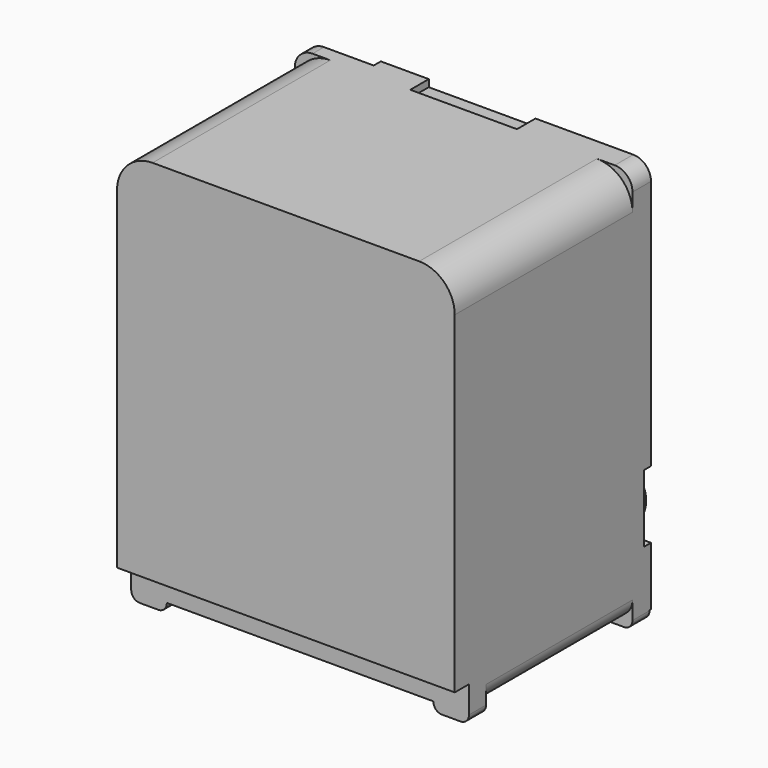
from build123d import *

# Parameters (mm, degrees)
SKETCH006_W     = 9.5
SKETCH006_H     = 11.1
PAD004_DEPTH    = 6.9
PAD005_DEPTH    = 0.15
POCKET002_DEPTH = 0.25
SKETCH009_R     = 0.8
PAD006_DEPTH    = 0.4
FILLET003_R     = 0.2
SKETCH010_W     = 1
SKETCH010_H     = 0.6
PAD007_DEPTH    = 0.25
FILLET004_R     = 0.24
SKETCH011_W     = 0.75
SKETCH011_H     = 0.5
POCKET003_DEPTH = 9.5
FILLET005_R     = 0.5
POCKET004_DEPTH = 6.25
FILLET006_R     = 0.5
SKETCH013_W     = 3
SKETCH013_H     = 0.65
POCKET005_DEPTH = 0.2


with BuildPart() as part:
    # Sketch006 → Pad004 (new body)
    with BuildSketch(Plane.XZ):
        with Locations((0, -0.7)):
            Rectangle(SKETCH006_W, SKETCH006_H)
    extrude(amount=-PAD004_DEPTH)

    # Sketch007 (on Face6 of Pad004) → Pad005 (join)
    with BuildSketch(Plane(origin=(0, 6.9, 0), x_dir=(1, 0, 0), z_dir=(0, 1, 0))):
        with BuildLine():
            Line((-4.05, 2), (-4.05, -2))
            ThreePointArc((-4.05, -2), (-3.903553, -2.353553), (-3.55, -2.5))
            Line((-3.55, -2.5), (3.55, -2.5))
            ThreePointArc((3.55, -2.5), (3.903553, -2.353553), (4.05, -2))
            Line((4.05, -2), (4.05, 2))
            ThreePointArc((4.05, 2), (3.903553, 2.353553), (3.55, 2.5))
            Line((3.55, 2.5), (-3.55, 2.5))
            ThreePointArc((-3.55, 2.5), (-3.903553, 2.353553), (-4.05, 2))
        make_face()
    extrude(amount=PAD005_DEPTH)

    # Sketch008 (on Face5 of Pad005) → Pocket002 (cut)
    with BuildSketch(Plane(origin=(0, 6.9, 0), x_dir=(1, 0, 0), z_dir=(0, 1, 0))):
        with BuildLine():
            Line((-3.8, -2.7), (-4.75, -2.7))
            Line((-4.75, -2.7), (-4.75, -4.85))
            Line((-4.75, -4.85), (-2.85, -4.85))
            Line((-2.85, -4.85), (-2.85, -3.65))
            ThreePointArc((-2.85, -3.65), (-3.128249, -2.978249), (-3.8, -2.7))
        make_face()
        with BuildLine():
            Line((3.8, 4.6), (4.75, 4.6))
            Line((4.75, 4.6), (4.75, 2.7))
            Line((4.75, 2.7), (3.8, 2.7))
            ThreePointArc((3.8, 4.6), (2.85, 3.65), (3.8, 2.7))
        make_face()
    extrude(amount=-POCKET002_DEPTH, mode=Mode.SUBTRACT)

    # Sketch009 (on Face22 of Pocket002) → Pad006 (join)
    with BuildSketch(Plane(origin=(0, 6.65, 0), x_dir=(1, 0, 0), z_dir=(0, 1, 0))):
        with Locations((3.8, 3.65)):
            Circle(SKETCH009_R)
        with Locations((-3.8, -3.65)):
            Circle(SKETCH009_R)
    extrude(amount=PAD006_DEPTH)

    # Fillet003
    fillet003_edges = [part.edges().sort_by_distance(p)[0] for p in [
        (3, 7.05, -3.65),
        (-4.6, 7.05, 3.65),
    ]]
    fillet(fillet003_edges, radius=FILLET003_R)

    # Sketch010 (on Face12 of Fillet003) → Pad007 (join)
    with BuildSketch(Plane(origin=(0, 0, -6.25), x_dir=(1, 0, 0), z_dir=(0, 0, -1))):
        with Locations((-4.25, -0.8)):
            Rectangle(SKETCH010_W, SKETCH010_H)
        with Locations((-4.25, -6.55)):
            Rectangle(SKETCH010_W, SKETCH010_H)
        with Locations((4.25, -0.8)):
            Rectangle(SKETCH010_W, SKETCH010_H)
        with Locations((4.25, -6.55)):
            Rectangle(SKETCH010_W, SKETCH010_H)
    extrude(amount=PAD007_DEPTH)

    # Fillet004
    fillet004_edges = [part.edges().sort_by_distance(p)[0] for p in [
        (-3.75, 0.8, -6.5),
        (-4.75, 0.8, -6.5),
        (3.75, 0.8, -6.5),
        (4.75, 0.8, -6.5),
        (4.75, 6.55, -6.5),
        (3.75, 6.55, -6.5),
        (-3.75, 6.55, -6.5),
        (-4.75, 6.55, -6.5),
    ]]
    fillet(fillet004_edges, radius=FILLET004_R)

    # Sketch011 (on Face16 of Fillet004) → Pocket003 (cut)
    with BuildSketch(Plane(origin=(4.75, 0, 0), x_dir=(0, 0, 1), z_dir=(1, 0, 0))):
        with Locations((-5.875, -0.25)):
            Rectangle(SKETCH011_W, SKETCH011_H)
    extrude(amount=-POCKET003_DEPTH, mode=Mode.SUBTRACT)

    # Fillet005
    fillet005_edges = [part.edges().sort_by_distance(p)[0] for p in [
        (-4.75, 3.675, -6.25),
        (4.75, 3.675, -6.25),
    ]]
    fillet(fillet005_edges, radius=FILLET005_R)

    # Sketch012 (on Face25 of Fillet005) → Pocket004 (cut)
    with BuildSketch(Plane.XZ):
        with BuildLine():
            Line((3.75, 4.85), (3.75, 5.85))
            Line((3.75, 5.85), (5.75, 5.85))
            Line((5.75, 5.85), (5.75, 3.85))
            Line((5.75, 3.85), (4.75, 3.85))
            ThreePointArc((4.75, 3.85), (4.457107, 4.557107), (3.75, 4.85))
        make_face()
        with BuildLine():
            ThreePointArc((-3.75, 4.85), (-4.457107, 4.557107), (-4.75, 3.85))
            Line((-5.75, 3.85), (-4.75, 3.85))
            Line((-5.75, 5.85), (-5.75, 3.85))
            Line((-3.75, 5.85), (-5.75, 5.85))
            Line((-3.75, 4.85), (-3.75, 5.85))
        make_face()
    extrude(amount=-POCKET004_DEPTH, mode=Mode.SUBTRACT)

    # Fillet006
    fillet006_edges = [part.edges().sort_by_distance(p)[0] for p in [
        (4.75, 6.575, 4.85),
        (-4.75, 6.45, 4.85),
    ]]
    fillet(fillet006_edges, radius=FILLET006_R)

    # Sketch013 (on Face17 of Fillet006) → Pocket005 (cut)
    with BuildSketch(Plane(origin=(0, 0, 4.85), x_dir=(-1, 0, 0), z_dir=(0, 0, 1))):
        with Locations((0, -6.575)):
            Rectangle(SKETCH013_W, SKETCH013_H)
    extrude(amount=-POCKET005_DEPTH, mode=Mode.SUBTRACT)


solid = part.part
